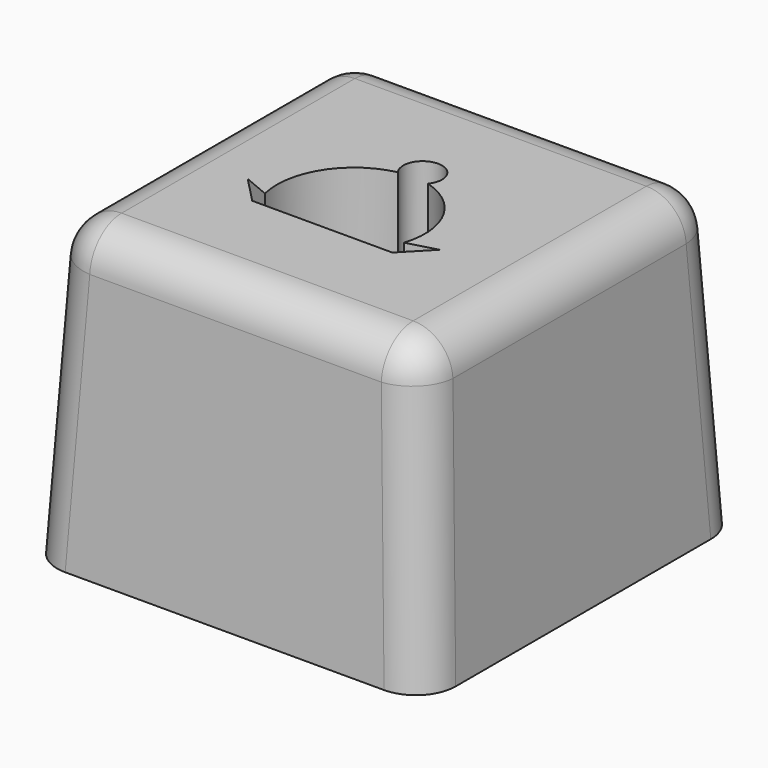
from build123d import *

# Parameters (mm, degrees)
F0_W     = 20
F0_H     = 20
F1_DEPTH = 15
F1_TAPER = 3
F2_R     = 2
F4_DEPTH = 5
F6_DEPTH = 2


with BuildPart() as f1:
    # F0 (on Top) → F1 (new body)
    with BuildSketch(Plane.XY):
        with Locations((1.9706902094, 0.2862163961)):
            Rectangle(F0_W, F0_H)
    extrude(amount=F1_DEPTH, taper=F1_TAPER)

    # F2
    f2_edges = [f1.edges().sort_by_distance(p)[0] for p in [
        (11.577632, 9.893158, 7.5),
        (1.97069, 9.5001, 15),
        (-7.636251, 9.893158, 7.5),
        (11.184574, 0.286216, 15),
        (11.577632, -9.320725, 7.5),
        (1.97069, -8.927667, 15),
        (-7.243193, 0.286216, 15),
        (-7.636251, -9.320725, 7.5),
    ]]
    fillet(f2_edges, radius=F2_R)

    # F3 (on face) → F4 (cut)
    with BuildSketch(Plane.XY.offset(15)):
        with BuildLine():
            ThreePointArc((2.4668298597, 2.420319631), (2.6270550618, 2.7065444383), (2.6825853886, 3.0298293568))
            ThreePointArc((2.6825853886, 3.0298293568), (1.4060278584, 3.9484621473), (0.9404779675, 2.446214288))
            ThreePointArc((0.9404779675, 2.446214288), (1.6973410612, 2.0611579891), (2.4668298597, 2.420319631))
        make_face()
        with BuildLine():
            ThreePointArc((2.4668298597, 2.420319631), (1.6973410612, 2.0611579891), (0.9404779675, 2.446214288))
            ThreePointArc((0.9404779675, 2.446214288), (-1.5061031251, 0.7291430041), (-2.005701419, -2.2178036161))
            Line((-2.005701419, -2.2178036161), (-3.3031930216, -1.6699736007))
            Line((-3.3031930216, -1.6699736007), (-2.005701419, -3.0136309616))
            Line((-2.005701419, -3.0136309616), (5.0295870751, -3.0136309616))
            Line((5.0295870751, -3.0136309616), (6.3270786777, -1.6699736007))
            Line((6.3270786777, -1.6699736007), (4.8565878533, -2.0736376755))
            ThreePointArc((4.8565878533, -2.0736376755), (4.6201459688, 0.6830104281), (2.4668298597, 2.420319631))
        make_face()
    extrude(amount=-F4_DEPTH, mode=Mode.SUBTRACT)

    # F5 (on face) → F6 (cut)
    with BuildSketch(Plane.XY.offset(10)):
        with BuildLine():
            ThreePointArc((0.9404779675, 2.446214288), (-0.7753137079, 1.5817313603), (-1.8659088252, 0))
            ThreePointArc((-1.8659088252, 0), (-1.0221589161, -0.6510962238), (0, -0.3493822005))
            ThreePointArc((0, -0.3493822005), (0.6882312009, -0.8328877124), (1.3764624018, -0.3493822005))
            ThreePointArc((1.3764624018, -0.3493822005), (1.9947274122, -0.8549416092), (2.6129924227, -0.3493822005))
            ThreePointArc((2.6129924227, -0.3493822005), (3.1948891701, -0.6762140192), (3.7767859176, -0.3493822005))
            ThreePointArc((3.7767859176, -0.3493822005), (4.4330516654, -0.4840787766), (4.8961884025, 0))
            ThreePointArc((4.8961884025, 0), (3.9955688533, 1.5253924233), (2.4668298597, 2.420319631))
            ThreePointArc((2.4668298597, 2.420319631), (1.7302082041, 3.9985007245), (0.9404779675, 2.446214288))
        make_face()
    extrude(amount=-F6_DEPTH, mode=Mode.SUBTRACT)


solid = f1.part
